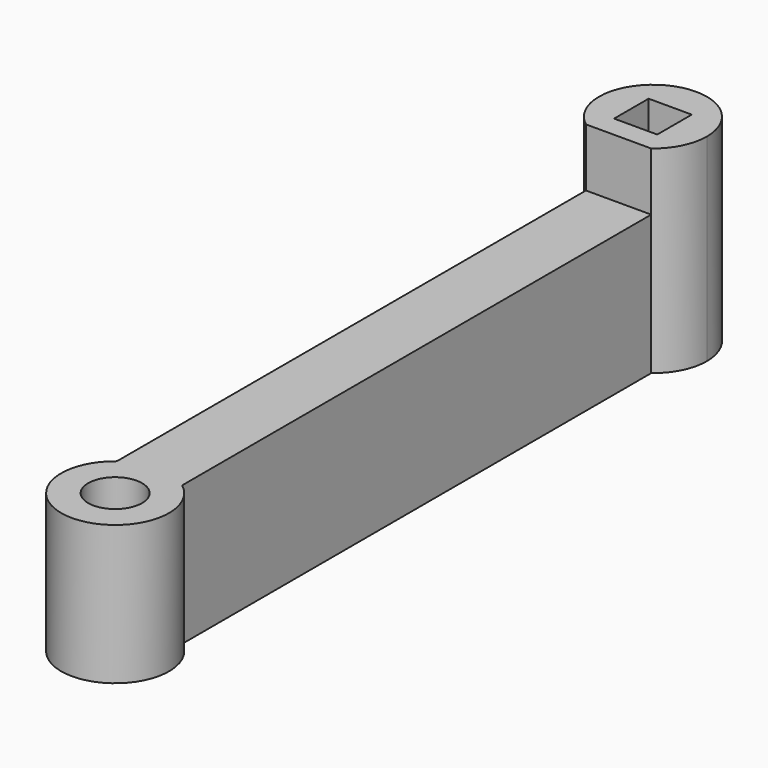
from build123d import *

# Parameters (mm, degrees)
F1_DEPTH = 11
F3_DEPTH = 25
F4_W     = 3.629314
F4_H     = 7.762888
F5_DEPTH = 35
F6_R     = 3
F7_DEPTH = 7.75
F8_R     = 1.5
F9_DEPTH = 25


with BuildPart() as f1:
    # F0 (on Top) → F1 (new body)
    with BuildSketch(Plane.XY):
        with BuildLine():
            Line((1.2, 0), (3, 0))
            ThreePointArc((3, 0), (2.12132, 2.12132), (0, 3))
            Line((0, 3), (0, 1.2))
            Line((0, 1.2), (1.2, 1.2))
            Line((1.2, 1.2), (1.2, 1.0315))
            Line((1.2, 1.0315), (1.2, 0.863))
            Line((1.2, 0.863), (1.2, 0))
        make_face()
        with BuildLine():
            ThreePointArc((0, -3), (2.12132, -2.12132), (3, 0))
            Line((3, 0), (1.2, 0))
            Line((1.2, 0), (1.2, -1.2))
            Line((1.2, -1.2), (0, -1.2))
            Line((0, -1.2), (0, -3))
        make_face()
        with BuildLine():
            Line((0, 1.2), (0, 3))
            ThreePointArc((0, 3), (-2.12132, 2.12132), (-3, 0))
            Line((-3, 0), (-1.2, 0))
            Line((-1.2, 0), (-1.2, 1.0315))
            Line((-1.2, 1.0315), (-1.2, 1.2))
            Line((-1.2, 1.2), (0, 1.2))
        make_face()
        with BuildLine():
            ThreePointArc((-3, 0), (-2.12132, -2.12132), (0, -3))
            Line((0, -3), (0, -1.2))
            Line((0, -1.2), (-1.2, -1.2))
            Line((-1.2, -1.2), (-1.2, 0))
            Line((-1.2, 0), (-3, 0))
        make_face()
    extrude(amount=F1_DEPTH)

    # F2 (on face) → F3 (cut)
    with BuildSketch(Plane.XY.offset(11)):
        with BuildLine():
            Line((1.814657, -2.388937), (-1.814657, -2.388937))
            ThreePointArc((-1.814657, -2.388937), (0, -3), (1.814657, -2.388937))
        make_face()
    extrude(amount=-F3_DEPTH, mode=Mode.SUBTRACT)

    # F4 (on face) → F5 (join)
    with BuildSketch(Plane.XZ.offset(2.388937)):
        with Locations((0, 3.881444)):
            Rectangle(F4_W, F4_H)
    extrude(amount=F5_DEPTH)

    # F6 (on face) → F7 (join)
    with BuildSketch(Plane.XY.offset(7.762888)):
        with Locations((0, -37.388937)):
            Circle(F6_R)
    extrude(amount=-F7_DEPTH)

    # F8 (on face) → F9 (cut)
    with BuildSketch(Plane.XY.offset(7.762888)):
        with Locations((0, -37.388937)):
            Circle(F8_R)
    extrude(amount=-F9_DEPTH, mode=Mode.SUBTRACT)


solid = f1.part
